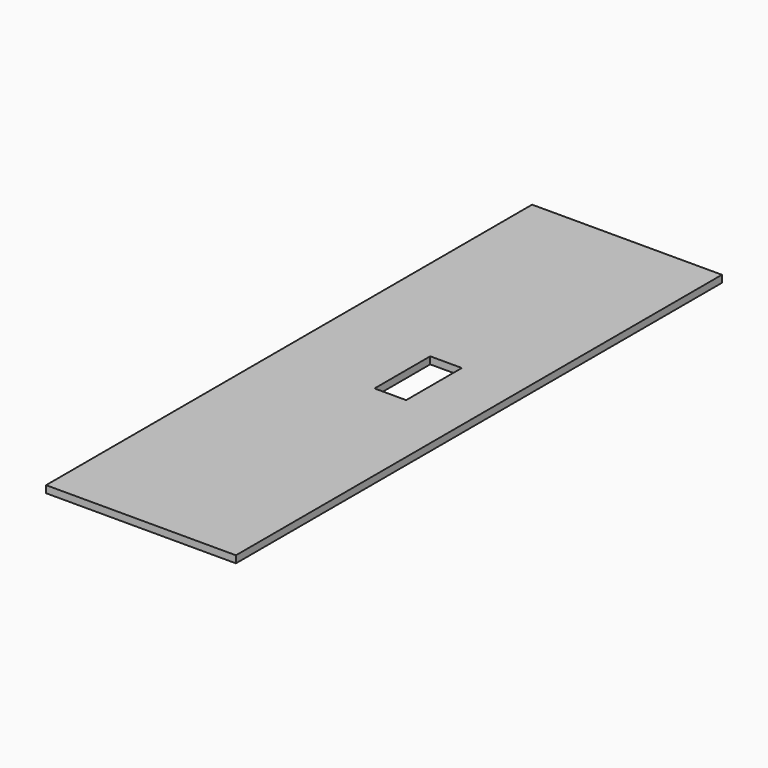
from build123d import *

# Parameters (mm, degrees)
F0_W     = 762
F0_H     = 2133.6
F1_DEPTH = 28.575
F3_DEPTH = 31.75
F4_DEPTH = 304.8


with BuildPart() as f1:
    # F0 (on Top) → F1 (new body)
    with BuildSketch(Plane.XY):
        Rectangle(F0_W, F0_H)
    extrude(amount=F1_DEPTH)

    # F2 (on face) → F3 (cut)
    with BuildSketch(Plane.XY.offset(28.575)):
        Polygon((12.7, 63.5), (12.7, -76.2), (12.7, -215.9), (139.7, -215.9), (139.7, 63.5), align=None)
    extrude(amount=-F3_DEPTH, mode=Mode.SUBTRACT)

    # F4 (add): a face of the model
    f4_faces = [f1.faces().sort_by_distance(p)[0] for p in [
        (0, -1066.8, 14.2875),
    ]]
    extrude(f4_faces, amount=F4_DEPTH)


solid = f1.part
